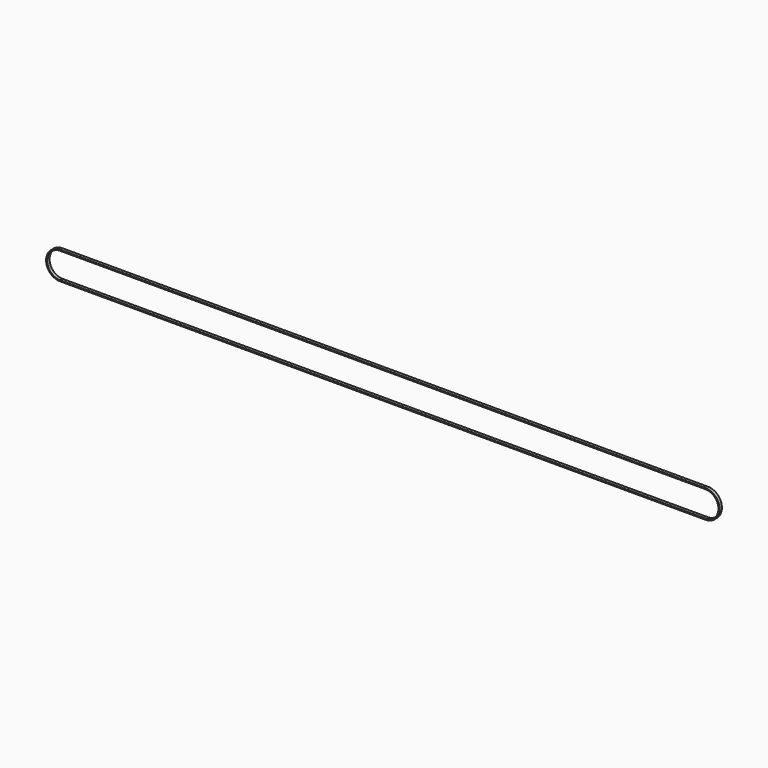
from build123d import *

# Parameters (mm, degrees)
F1_DEPTH = 7.112
F3_DEPTH = 25.4
F6_DEPTH = 25.4


with BuildPart() as f1:
    # F0 (on Front) → F1 (new body)
    with BuildSketch(Plane.XZ):
        with BuildLine():
            Line((-134.4452477908, 13.9205330778), (1389.5547522092, 13.9205330778))
            ThreePointArc((1389.5547522092, 13.9205330778), (1422.5747522092, 46.9405330778), (1389.5547522092, 79.9605330778))
            Line((1389.5547522092, 79.9605330778), (-134.4452477908, 79.9605330778))
            ThreePointArc((-134.4452477908, 79.9605330778), (-167.4652477908, 46.9405330778), (-134.4452477908, 13.9205330778))
        make_face()
        with BuildLine():
            ThreePointArc((-134.4452477908, 16.4605330778), (-164.9252477908, 46.9405330778), (-134.4452477908, 77.4205330778))
            Line((-134.4452477908, 77.4205330778), (1389.5547522092, 77.4205330778))
            ThreePointArc((1389.5547522092, 77.4205330778), (1420.0347522092, 46.9405330778), (1389.5547522092, 16.4605330778))
            Line((1389.5547522092, 16.4605330778), (-134.4452477908, 16.4605330778))
        make_face(mode=Mode.SUBTRACT)
    extrude(amount=F1_DEPTH)

    # F2 (on face) → F3 (cut)
    with BuildSketch(Plane.XY.offset(79.9605330778)):
        with BuildLine():
            Line((28.1147522092, -4.6345466567), (28.1147522092, -2.4774533433))
            ThreePointArc((28.1147522092, -2.4774533433), (27.0362055525, -3.556), (28.1147522092, -4.6345466567))
        make_face()
        with BuildLine():
            ThreePointArc((29.1932988659, -3.556), (28.877399864, -2.7933523452), (28.1147522092, -2.4774533433))
            Line((28.1147522092, -2.4774533433), (28.1147522092, -4.6345466567))
            ThreePointArc((28.1147522092, -4.6345466567), (28.877399864, -4.3186476548), (29.1932988659, -3.556))
        make_face()
    extrude(amount=-F3_DEPTH, mode=Mode.SUBTRACT)

    # F5 (on face) → F6 (cut)
    with BuildSketch(Plane(origin=(0, 0, 13.9205330778), x_dir=(1, 0, 0), z_dir=(0, 0, -1))):
        with BuildLine():
            ThreePointArc((-134.4452477908, 2.2867995466), (-133.5477875436, 2.6585397527), (-133.1760473375, 3.556))
            ThreePointArc((-133.1760473375, 3.556), (-133.5477875436, 4.4534602473), (-134.4452477908, 4.8252004534))
            Line((-134.4452477908, 4.8252004534), (-134.4452477908, 2.2867995466))
        make_face()
        with BuildLine():
            Line((-134.4452477908, 2.2867995466), (-134.4452477908, 4.8252004534))
            ThreePointArc((-134.4452477908, 4.8252004534), (-135.7144482442, 3.556), (-134.4452477908, 2.2867995466))
        make_face()
    extrude(amount=-F6_DEPTH, mode=Mode.SUBTRACT)


solid = f1.part
